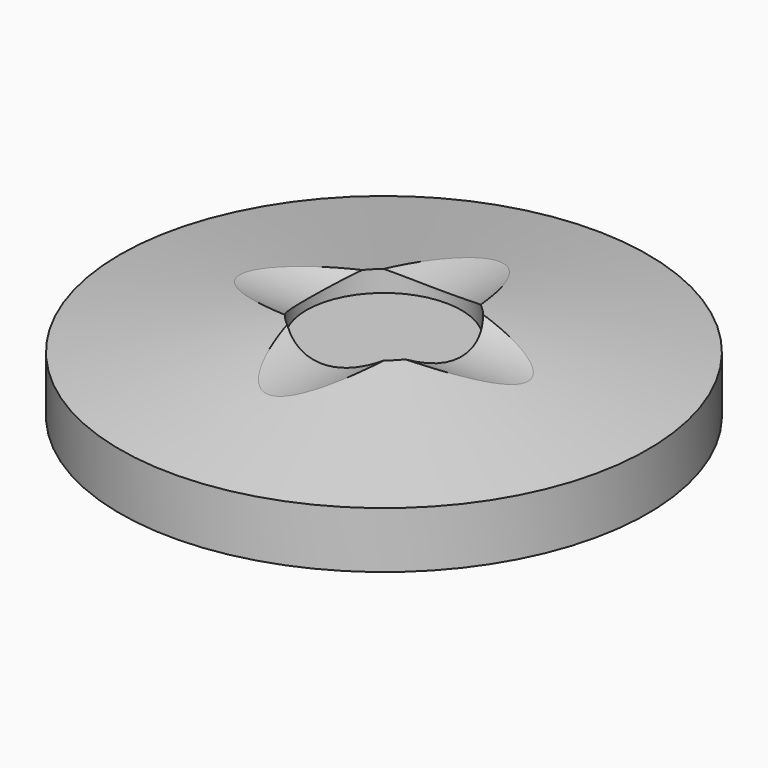
from build123d import *

# Parameters (mm, degrees)
F2_R     = 15
F3_DEPTH = 40
F4_ANGLE = 90


with BuildPart() as f1:
    # F0 (on Front) → F1 (revolve)
    with BuildSketch(Plane.XZ):
        Polygon((-37.5, 8), (-37.5, 0), (0, 0), (0, 9.672665), (-11, 9.672665), (-11, 12.672665), align=None)
    revolve(axis=Axis((0, 0, -11.012315), (0, 0, 1)))


with BuildPart() as f3:
    # F2 (on Front) → F3 (new body, symmetric)
    with BuildSketch(Plane.XZ):
        with Locations((0, 26)):
            Circle(F2_R)
    extrude(amount=F3_DEPTH, both=True)


with BuildPart() as f4_1:
    # F4: copy of F3
    add(f3.part.rotate(Axis((0, 0, -11.012315), (0, 0, 1)), F4_ANGLE))


with BuildPart() as f1_1:
    add(f1.part)

    # F5: cut F3, F4_1
    add(f3.part, mode=Mode.SUBTRACT)
    add(f4_1.part, mode=Mode.SUBTRACT)


solid = f1_1.part
